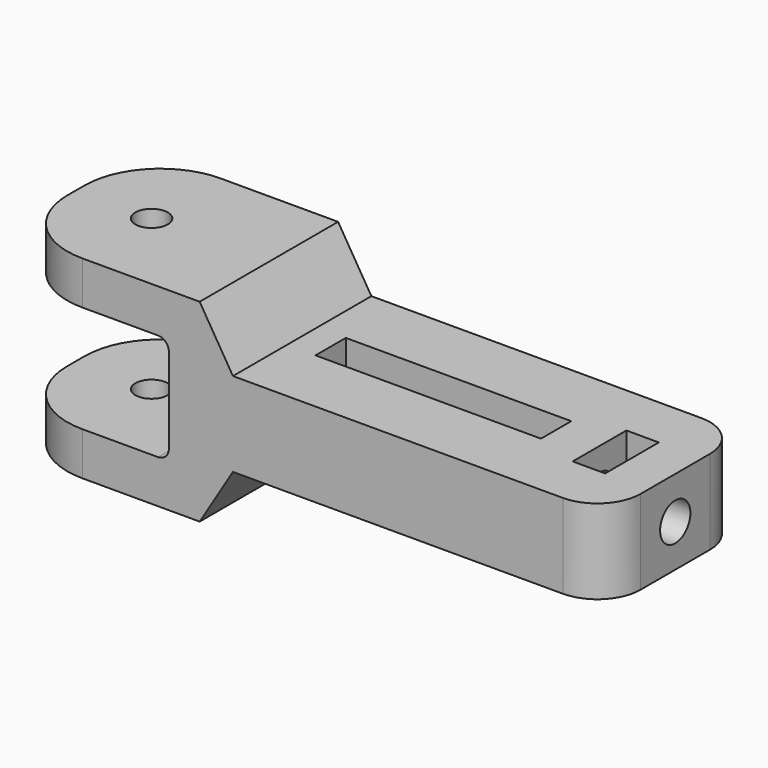
from build123d import *

# Parameters (mm, degrees)
F0_W          = 20.846172
F0_H          = 3.5
F0_W_2        = 3
F0_H_2        = 6.2
F1_DEPTH      = 3.9
F1_DEPTH_BACK = 3.9
F2_R          = 1.75
F3_DEPTH      = 16.2
F5_DEPTH      = 8
F5_DEPTH_BACK = 8
F6_R          = 7
F7_R          = 1.5
F8_DEPTH      = 25
F9_R          = 1.5
F10_DEPTH     = 1


with BuildPart() as f1:
    # F0 (on Top) → F1 (new body, two sides)
    with BuildSketch(Plane.XY) as f1_sk:
        with BuildLine():
            Line((-17.5, 8), (-17.5, -8))
            Line((-17.5, -8), (13.5, -8))
            ThreePointArc((13.5, -8), (16.328427, -6.828427), (17.5, -4))
            Line((17.5, -4), (17.5, 4))
            ThreePointArc((17.5, 4), (16.328427, 6.828427), (13.5, 8))
            Line((13.5, 8), (-17.5, 8))
        make_face()
        with Locations((-3.937322, 0)):
            Rectangle(F0_W, F0_H, mode=Mode.SUBTRACT)
        with Locations((12, 0)):
            Rectangle(F0_W_2, F0_H_2, mode=Mode.SUBTRACT)
    extrude(amount=F1_DEPTH)
    extrude(f1_sk.sketch, amount=-F1_DEPTH_BACK)

    # F2 (on face) → F3 (cut)
    with BuildSketch(Plane.YZ.offset(17.5)):
        Circle(F2_R)
    extrude(amount=-F3_DEPTH, mode=Mode.SUBTRACT)

    # F4 (on Front) → F5 (join, two sides)
    with BuildSketch(Plane.XZ) as f5_sk:
        with BuildLine():
            Line((-22.917766, 3.95), (-22.917766, -3.95))
            ThreePointArc((-22.917766, -3.95), (-23.210659, -4.657107), (-23.917766, -4.95))
            Line((-23.917766, -4.95), (-37.917766, -4.95))
            Line((-37.917766, -4.95), (-37.917766, -8.95))
            Line((-37.917766, -8.95), (-20.07043, -8.95))
            Line((-20.07043, -8.95), (-16.954886, -3.836561))
            Line((-16.954886, -3.836561), (-16.954886, 3.836561))
            Line((-16.954886, 3.836561), (-20.07043, 8.95))
            Line((-20.07043, 8.95), (-37.917766, 8.95))
            Line((-37.917766, 8.95), (-37.917766, 4.95))
            Line((-37.917766, 4.95), (-23.917766, 4.95))
            ThreePointArc((-23.917766, 4.95), (-23.210659, 4.657107), (-22.917766, 3.95))
        make_face()
    extrude(amount=F5_DEPTH)
    extrude(f5_sk.sketch, amount=-F5_DEPTH_BACK)

    # F6
    f6_edges = [f1.edges().sort_by_distance(p)[0] for p in [
        (-37.917766, -8, -6.95),
        (-37.917766, -8, 6.95),
        (-37.917766, 8, 6.95),
        (-37.917766, 8, -6.95),
    ]]
    fillet(f6_edges, radius=F6_R)

    # F7 (on face) → F8 (cut)
    with BuildSketch(Plane(origin=(0, 0, -8.95), x_dir=(1, 0, 0), z_dir=(0, 0, -1))):
        with Locations((-30.917766, 0)):
            Circle(F7_R)
    extrude(amount=-F8_DEPTH, mode=Mode.SUBTRACT)

    # F9 (on face) → F10 (cut)
    with BuildSketch(Plane(origin=(0, 0, -8.95), x_dir=(1, 0, 0), z_dir=(0, 0, -1))):
        Polygon((-29.417766, -2.598076), (-27.917766, 0), (-29.417766, 2.598076), (-32.417766, 2.598076), (-33.917766, 0), (-32.417766, -2.598076), align=None)
        with Locations((-30.917766, 0)):
            Circle(F9_R, mode=Mode.SUBTRACT)
    extrude(amount=-F10_DEPTH, mode=Mode.SUBTRACT)


solid = f1.part
